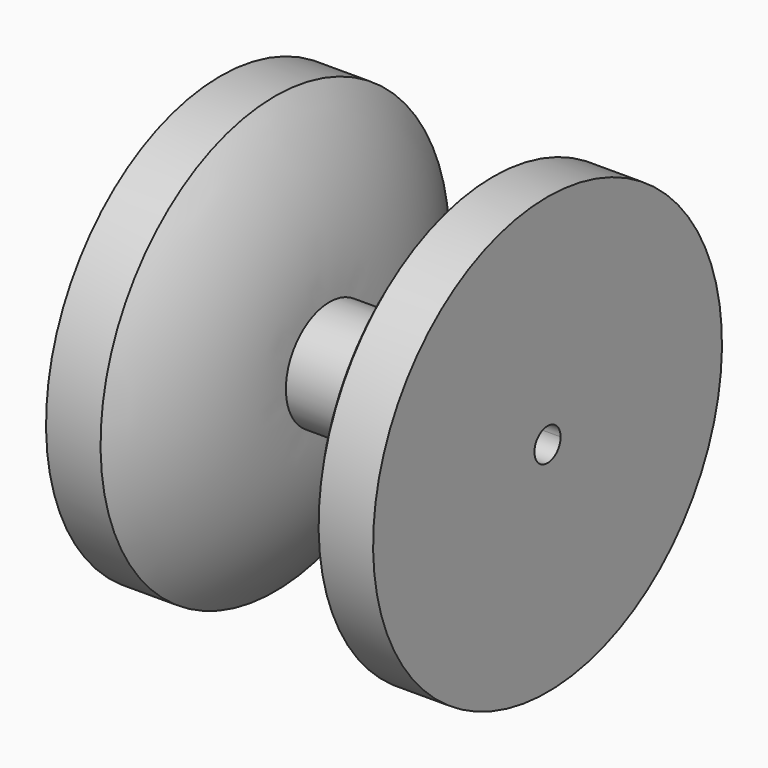
from build123d import *

# Parameters (mm, degrees)
F3_DEPTH = 101.6


with BuildPart() as f1:
    # F0 (on Front) → F1 (revolve)
    with BuildSketch(Plane.XZ):
        with BuildLine():
            ThreePointArc((6.35, 19.05), (1.629305, 10.040232), (0, 0))
            Line((0, 0), (-12.7, 0))
            ThreePointArc((-12.7, 0), (-14.329305, 10.040232), (-19.05, 19.05))
            Line((-19.05, 19.05), (-25.4, 19.05))
            Line((-25.4, 19.05), (-25.4, -6.35))
            Line((-25.4, -6.35), (0, -6.35))
            Line((0, -6.35), (6.35, -6.35))
            Line((6.35, -6.35), (12.7, -6.35))
            Line((12.7, -6.35), (12.7, 19.05))
            Line((12.7, 19.05), (6.35, 19.05))
        make_face()
    revolve(axis=Axis((-6.35, 0, -6.35), (-1, 0, 0)))

    # F2 (on face) → F3 (cut)
    with BuildSketch(Plane.YZ.offset(12.7)):
        with BuildLine():
            Line((0, -6.35), (0, -4.445))
            ThreePointArc((0, -4.445), (-1.347038, -7.697038), (1.905, -6.35))
            Line((1.905, -6.35), (0, -6.35))
        make_face()
        with BuildLine():
            ThreePointArc((1.905, -6.35), (1.347038, -5.002962), (0, -4.445))
            Line((0, -4.445), (0, -6.35))
            Line((0, -6.35), (1.905, -6.35))
        make_face()
    extrude(amount=-F3_DEPTH, mode=Mode.SUBTRACT)


solid = f1.part
